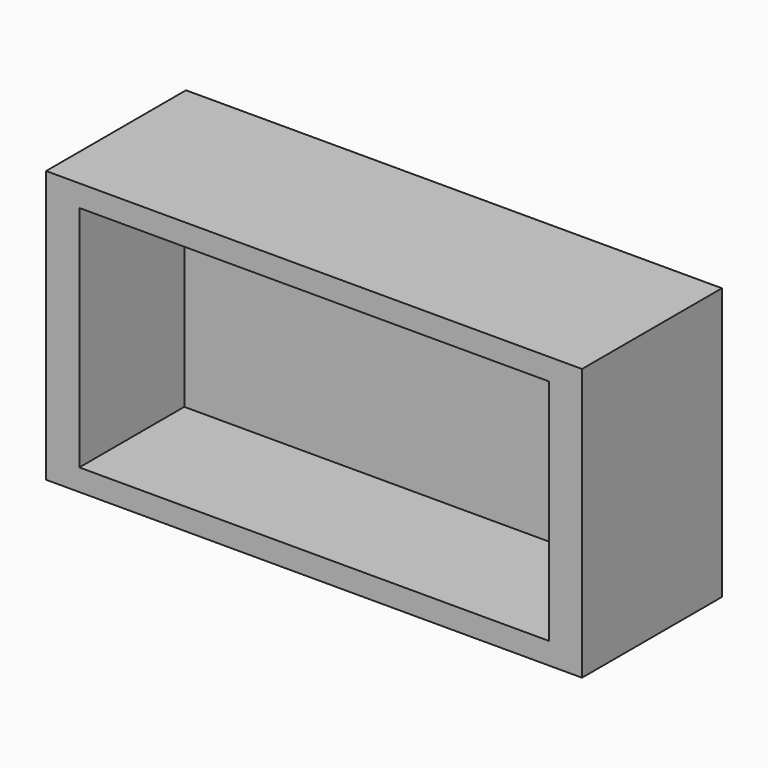
from build123d import *

# Parameters (mm, degrees)
F1_DEPTH = 50.8
F0_W     = 68.1800022721
F0_H     = 33.179204911
F2_DEPTH = 12.7


with BuildPart() as f1:
    # F0 (on Front) → F1 (new body)
    with BuildSketch(Plane.XZ):
        Polygon((-77.840000391, 0), (-68.1800022721, 0), (-68.1800022721, 33.179204911), (0, 33.179204911), (0, 39.4792035222), (-77.840000391, 39.4792035222), align=None)
        Polygon((-68.1800022721, -33.179204911), (-68.1800022721, 0), (-77.840000391, 0), (-77.840000391, -39.4792035222), (0, -39.4792035222), (0, -33.179204911), align=None)
        Polygon((0, 39.4792035222), (0, 33.179204911), (68.1800022721, 33.179204911), (68.1800022721, 0), (77.840000391, 0), (77.840000391, 39.4792035222), align=None)
        Polygon((77.840000391, 0), (68.1800022721, 0), (68.1800022721, -33.179204911), (0, -33.179204911), (0, -39.4792035222), (77.840000391, -39.4792035222), align=None)
    extrude(amount=F1_DEPTH)

    # F0 (on Front) → F2 (join)
    with BuildSketch(Plane.XZ):
        with Locations((-34.0900011361, 16.5896024555)):
            Rectangle(F0_W, F0_H)
        with Locations((34.0900011361, 16.5896024555)):
            Rectangle(F0_W, F0_H)
        with Locations((34.0900011361, -16.5896024555)):
            Rectangle(F0_W, F0_H)
        with Locations((-34.0900011361, -16.5896024555)):
            Rectangle(F0_W, F0_H)
    extrude(amount=F2_DEPTH)


solid = f1.part
